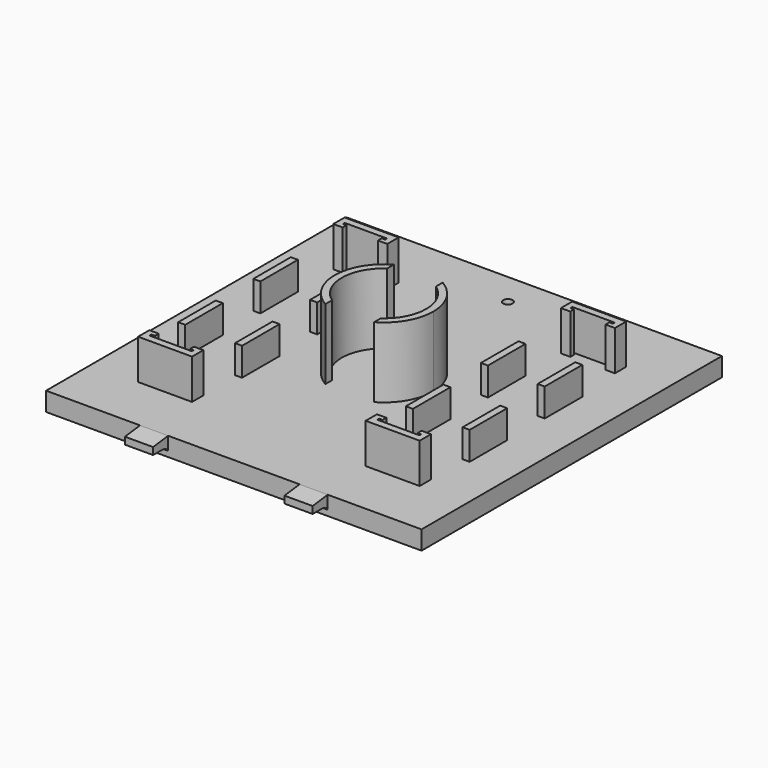
from build123d import *

# Parameters (mm, degrees)
F1_DEPTH       = 4
F2_W           = 1.5
F2_H           = 10
F3_DEPTH       = 6
F2_W_2         = 7.5
F2_H_2         = 1.5
F4_DEPTH       = 8.5
F5_R           = 1
F6_DEPTH       = 25
F7_START       = -2
F5_R_2         = 1.5
F7_DEPTH       = 23
F8_SIZE        = 1.5
F10_DEPTH      = 40
F10_DEPTH_BACK = 40
F0_W           = 20
F0_H           = 4
F0_W_2         = 28
F11_DEPTH      = 18.6
F12_DEPTH      = 0.3
F14_DEPTH      = 15


with BuildPart() as f1:
    # F0 (on Top) → F1 (new body)
    with BuildSketch(Plane.XY):
        Polygon((40, 40), (-40, 40), (-40, -40), (-20, -40), (-14, -40), (14, -40), (20, -40), (40, -40), align=None)
    extrude(amount=F1_DEPTH)

    # F2 (on face) → F3 (join)
    with BuildSketch(Plane.XY.offset(4)):
        with Locations((-30.3, -11)):
            Rectangle(F2_W, F2_H)
        with Locations((-18.2, -11)):
            Rectangle(F2_W, F2_H)
        with Locations((-18.2, 9)):
            Rectangle(F2_W, F2_H)
        with Locations((-30.3, 9)):
            Rectangle(F2_W, F2_H)
        with Locations((18.2, -11)):
            Rectangle(F2_W, F2_H)
        with Locations((18.2, 9)):
            Rectangle(F2_W, F2_H)
        with Locations((30.3, 9)):
            Rectangle(F2_W, F2_H)
        with Locations((30.3, -11)):
            Rectangle(F2_W, F2_H)
    extrude(amount=F3_DEPTH)

    # F2 (on face) → F4 (join)
    with BuildSketch(Plane.XY.offset(4)):
        Polygon((-28, 27), (-30, 27), (-30, 24), (-28, 24), (-28, 25), (-28.75, 25), (-28.75, 25.5), (-28, 25.5), align=None)
        with Locations((-24.25, 26.25)):
            Rectangle(F2_W_2, F2_H_2)
        Polygon((-18.5, 27), (-20.5, 27), (-20.5, 25.5), (-19.75, 25.5), (-19.75, 25), (-20.5, 25), (-20.5, 24), (-18.5, 24), align=None)
        Polygon((-20.5, -28), (-18.5, -28), (-18.5, -25), (-20.5, -25), (-20.5, -26), (-19.75, -26), (-19.75, -26.5), (-20.5, -26.5), align=None)
        with Locations((-24.25, -27.25)):
            Rectangle(F2_W_2, F2_H_2)
        Polygon((-30, -28), (-28, -28), (-28, -26.5), (-28.75, -26.5), (-28.75, -26), (-28, -26), (-28, -25), (-30, -25), align=None)
        Polygon((20.5, 27), (18.5, 27), (18.5, 24), (20.5, 24), (20.5, 25), (19.75, 25), (19.75, 25.5), (20.5, 25.5), align=None)
        with Locations((24.25, 26.25)):
            Rectangle(F2_W_2, F2_H_2)
        Polygon((30, 27), (28, 27), (28, 25.5), (28.75, 25.5), (28.75, 25), (28, 25), (28, 24), (30, 24), align=None)
        Polygon((28, -28), (30, -28), (30, -25), (28, -25), (28, -26), (28.75, -26), (28.75, -26.5), (28, -26.5), align=None)
        with Locations((24.25, -27.25)):
            Rectangle(F2_W_2, F2_H_2)
        Polygon((18.5, -28), (20.5, -28), (20.5, -26.5), (19.75, -26.5), (19.75, -26), (20.5, -26), (20.5, -25), (18.5, -25), align=None)
    extrude(amount=F4_DEPTH)

    # F5 (on face) → F6 (cut)
    with BuildSketch(Plane.XY.offset(4)):
        with Locations((0, 33)):
            Circle(F5_R)
    extrude(amount=-F6_DEPTH, mode=Mode.SUBTRACT)

    # F5 (on face) → F7 (cut)
    with BuildSketch(Plane.XY.offset(4).offset(F7_START)):
        with Locations((0, 33)):
            Circle(F5_R_2)
        with Locations((0, 33)):
            Circle(F5_R, mode=Mode.SUBTRACT)
    extrude(amount=-F7_DEPTH, mode=Mode.SUBTRACT)

    # F8
    f8_edges = [f1.edges().sort_by_distance(p)[0] for p in [
        (-1.5, 33, 0),
    ]]
    chamfer(f8_edges, length=F8_SIZE)

    # F9 (on Right) → F10 (join, two sides)
    with BuildSketch(Plane.YZ) as f10_sk:
        Polygon((-44, 3.5), (-44, 2), (-41.3253502548, 2), (-40, 2), (-40, 4), align=None)
        with BuildLine():
            Line((-40, 2), (-41.3253502548, 2))
            add(Edge.make_bspline(
                [(-40, 1.1688865488), (-40.1044214362, 1.3442346056), (-40.4564972437, 1.788672813), (-40.9847019479, 1.899783813), (-41.3253502548, 2)],
                knots=[0, 0, 0, 0, 0.4675971857, 1, 1, 1, 1], degree=3))
            Line((-40, 1.1688865488), (-40, 2))
        make_face()
    extrude(amount=F10_DEPTH)
    extrude(f10_sk.sketch, amount=-F10_DEPTH_BACK)

    # F0 (on Top) → F11 (cut)
    with BuildSketch(Plane.XY):
        with Locations((-30, -42)):
            Rectangle(F0_W, F0_H)
        with Locations((0, -42)):
            Rectangle(F0_W_2, F0_H)
        with Locations((30, -42)):
            Rectangle(F0_W, F0_H)
    extrude(amount=F11_DEPTH, mode=Mode.SUBTRACT)

    # F2 (on face) → F12 (cut)
    with BuildSketch(Plane.XY.offset(4)):
        Polygon((-24, 20), (-24.5, 20), (-24.5, 19), (-25.5, 19), (-25.5, 18.5), (-24.5, 18.5), (-24.5, 17.5), (-24, 17.5), (-24, 18.5), (-23, 18.5), (-23, 19), (-24, 19), align=None)
        Polygon((24.5, -18.5), (24, -18.5), (24, -19.5), (23, -19.5), (23, -20), (24, -20), (24, -21), (24.5, -21), (24.5, -20), (25.5, -20), (25.5, -19.5), (24.5, -19.5), align=None)
    extrude(amount=-F12_DEPTH, mode=Mode.SUBTRACT)

    # F13 (on face) → F14 (join)
    with BuildSketch(Plane.XY.offset(4)):
        with BuildLine():
            ThreePointArc((-5.1981253765, -7.347073742), (-9, 0), (-5.1981253765, 7.347073742))
            Line((-5.1981253765, 7.347073742), (-5.1981253765, 9.123019926))
            ThreePointArc((-5.1981253765, 9.123019926), (-10.5, 0), (-5.1981253765, -9.123019926))
            Line((-5.1981253765, -9.123019926), (-5.1981253765, -7.347073742))
        make_face()
        with BuildLine():
            ThreePointArc((5.1981253765, 7.347073742), (7.993219889, 4.136234496), (9, 0))
            ThreePointArc((9, 0), (7.993219889, -4.136234496), (5.1981253765, -7.347073742))
            Line((5.1981253765, -7.347073742), (5.1981253765, -9.123019926))
            ThreePointArc((5.1981253765, -9.123019926), (9.078279475, -5.2758735555), (10.5, 0))
            ThreePointArc((10.5, 0), (9.078279475, 5.2758735555), (5.1981253765, 9.123019926))
            Line((5.1981253765, 9.123019926), (5.1981253765, 7.347073742))
        make_face()
    extrude(amount=F14_DEPTH)


solid = f1.part
